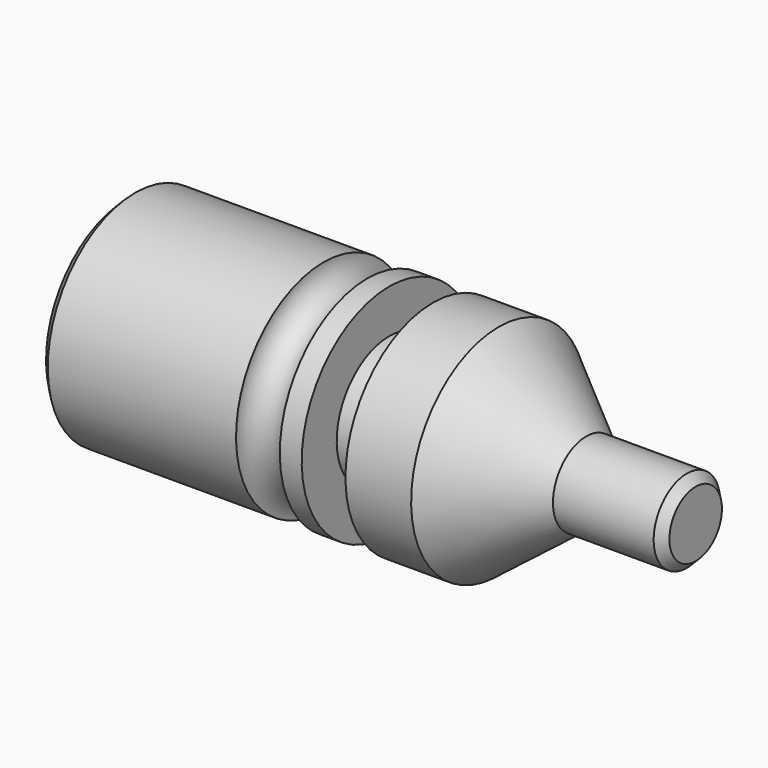
from build123d import *

# Parameters (mm, degrees)
F2_SIZE = 2


with BuildPart() as f1:
    # F0 (on Front) → F1 (revolve)
    with BuildSketch(Plane.XZ):
        with BuildLine():
            Line((-17.416716, 25), (-62.416716, 25))
            Line((-62.416716, 25), (-62.416716, 15))
            Line((-62.416716, 15), (-17.416716, 7.5))
            Line((-17.416716, 7.5), (-17.416716, 0))
            Line((-17.416716, 0), (67.583284, 0))
            Line((67.583284, 0), (67.583284, 9.5))
            Line((67.583284, 9.5), (42.583284, 9.5))
            Line((42.583284, 9.5), (22.583284, 25))
            Line((22.583284, 25), (7.583284, 25))
            Line((7.583284, 25), (7.583284, 15))
            Line((7.583284, 15), (-2.416716, 15))
            Line((-2.416716, 15), (-2.416716, 25))
            Line((-2.416716, 25), (-7.416716, 25))
            ThreePointArc((-7.416716, 25), (-12.416716, 20), (-17.416716, 25))
        make_face()
    revolve(axis=Axis((8.583733, 0, 0), (1, 0, 0)))

    # F2
    f2_edges = [f1.edges().sort_by_distance(p)[0] for p in [
        (-62.416716, 0, -25),
        (67.583284, 0, -9.5),
    ]]
    chamfer(f2_edges, length=F2_SIZE)


solid = f1.part
